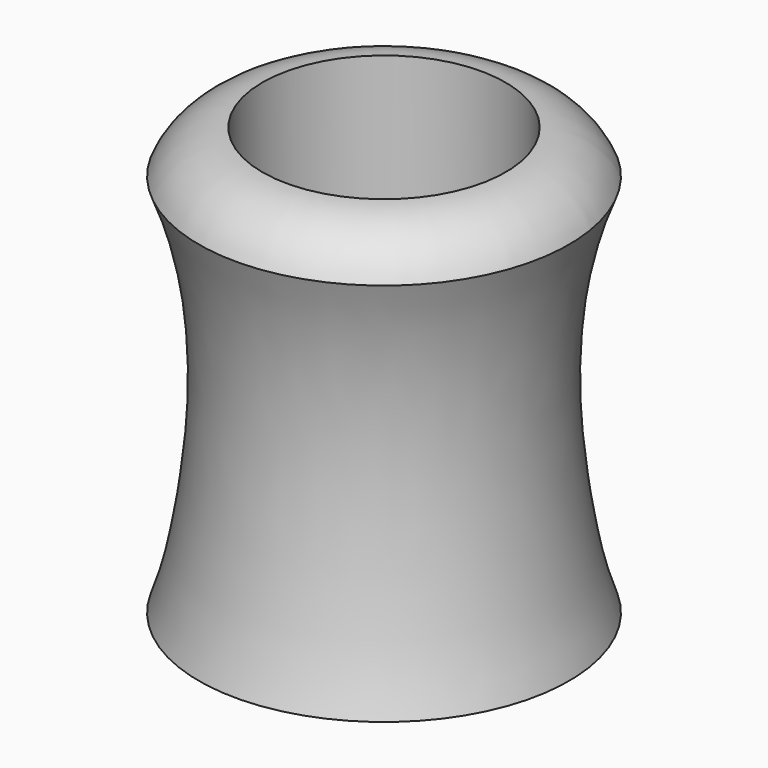
from build123d import *


with BuildPart() as f1:
    # F0 (on Front) → F1 (revolve)
    with BuildSketch(Plane.XZ):
        with BuildLine():
            Line((0, -7.1515361778), (0, 0))
            Line((0, 0), (-20, 0))
            Line((-20, 0), (-20, 50))
            ThreePointArc((-20, 50), (-26.2639441628, 48.0027957129), (-30.4342843592, 42.9200716317))
            add(Edge.make_bspline(
                [(-30.4342843592, 42.9200716317), (-23.0259504169, 25), (-26.2022933276, -4.9414957363), (-28.9502672666, -16.1926268841), (-30.4342843592, -20.2638860792)],
                knots=[0, 0, 0, 0, 0.6447568554, 1, 1, 1, 1], degree=3))
            Line((-30.4342843592, -20.2638860792), (-20.410772413, -20.2638860792))
            Line((-20.410772413, -20.2638860792), (-6.2835924327, -7.1515361778))
            Line((-6.2835924327, -7.1515361778), (0, -7.1515361778))
        make_face()
    revolve(axis=Axis((0, 0, 56.0435913503), (0, 0, 1)))


solid = f1.part
